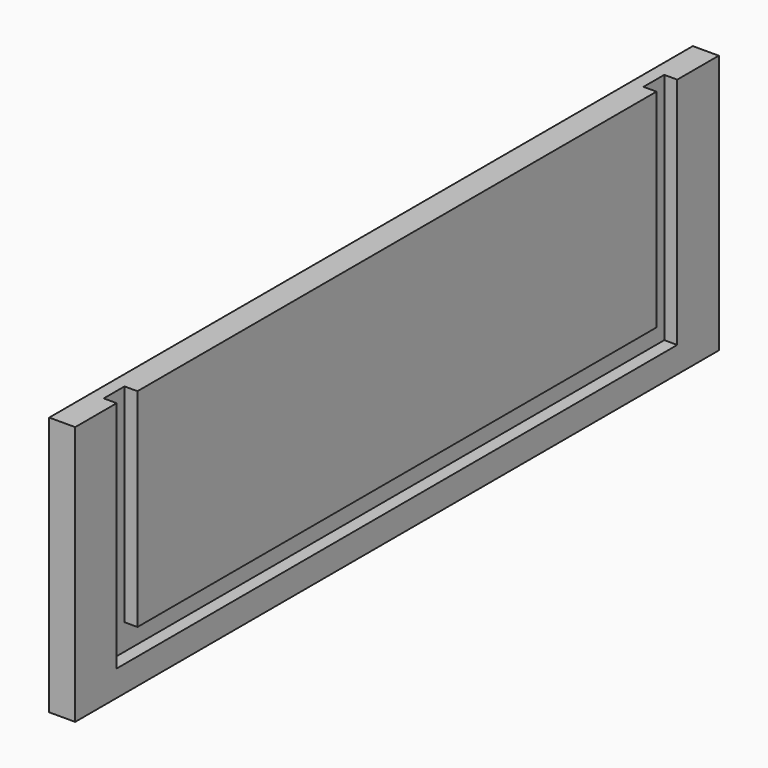
from build123d import *

# Parameters (mm, degrees)
F0_W     = 310
F0_H     = 100
F1_DEPTH = 10
F3_DEPTH = 5


with BuildPart() as f1:
    # F0 (on Right) → F1 (new body)
    with BuildSketch(Plane.YZ):
        with Locations((0, 50)):
            Rectangle(F0_W, F0_H)
    extrude(amount=F1_DEPTH)

    # F2 (on face) → F3 (cut)
    with BuildSketch(Plane.YZ.offset(10)):
        Polygon((-125, 100), (-135, 100), (-135, 10), (0, 10), (135, 10), (135, 100), (125, 100), (125, 20), (0, 20), (-125, 20), align=None)
    extrude(amount=-F3_DEPTH, mode=Mode.SUBTRACT)


solid = f1.part
